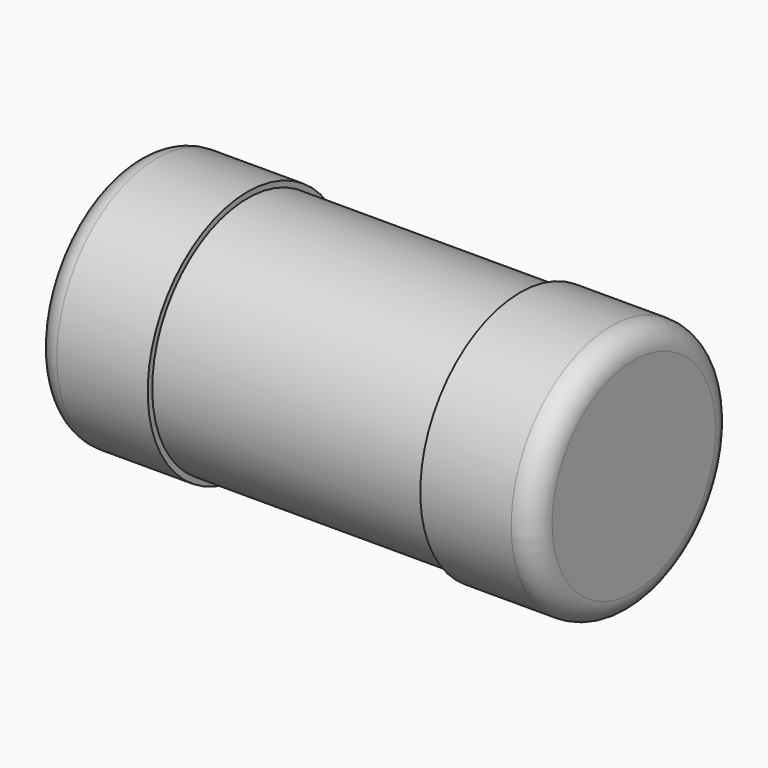
from build123d import *

# Parameters (mm, degrees)
SKETCH_W = 1.7
SKETCH_H = 0.525


with BuildPart() as revolution:
    # Sketch → Revolution (revolve)
    with BuildSketch(Plane.XZ):
        with Locations((0, 0.2875)):
            Rectangle(SKETCH_W, SKETCH_H)
    revolve(axis=Axis((-15.061842, 0, 0.55), (1, 0, 0)))


with BuildPart() as fusion:
    # Sketch001 → Revolution001 (revolve)
    with BuildSketch(Plane.XZ):
        with BuildLine():
            Line((-1, 0), (-0.6, 0))
            Line((-0.6, 0), (-0.6, 0.45))
            Line((-0.6, 0.45), (0.6, 0.45))
            Line((0.6, 0), (0.6, 0.45))
            Line((0.6, 0), (1, 0))
            ThreePointArc((1, 0), (1.070711, 0.029289), (1.1, 0.1))
            Line((1.1, 0.1), (1.1, 0.55))
            Line((-1.1, 0.55), (1.1, 0.55))
            Line((-1.1, 0.55), (-1.1, 0.1))
            ThreePointArc((-1.1, 0.1), (-1.070711, 0.029289), (-1, 0))
        make_face()
    revolve(axis=Axis((-8.9, 0, 0.55), (1, 0, 0)))

    # Fusion: union Revolution
    add(revolution.part)


solid = fusion.part
